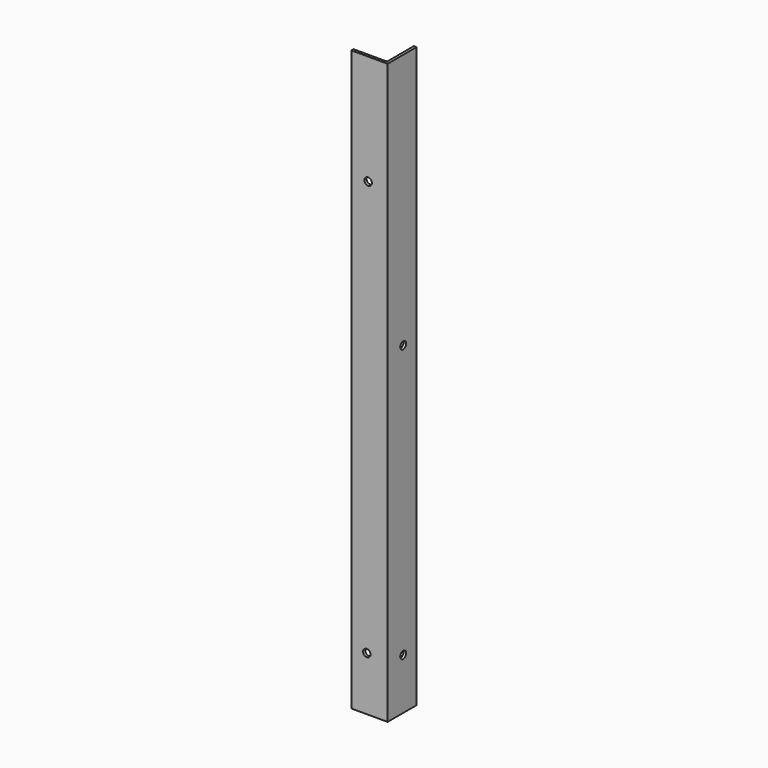
from build123d import *

# Parameters (mm, degrees)
BOX001_W      = 20
BOX001_H      = 20
BOX001_DEPTH  = 320
BOX_W         = 20
BOX_H         = 20
BOX_DEPTH     = 320
SKETCH005_R   = 2.05
HOLE_DEPTH    = 1.501
SKETCH011_R   = 2.05
HOLE006_DEPTH = 1.501
SKETCH013_R   = 2.05
HOLE008_DEPTH = 21.501


with BuildPart() as cut015:
    # Box001 → Box001 (new body)
    with BuildSketch(Plane(origin=(1.5, 1.5, 0), x_dir=(1, 0, 0), z_dir=(0, 0, 1))):
        with Locations((10, 10)):
            Rectangle(BOX001_W, BOX001_H)
    extrude(amount=BOX001_DEPTH)


with BuildPart() as vertical_front_left_body:
    # Box → Box (new body)
    with BuildSketch(Plane.XY):
        with Locations((10, 10)):
            Rectangle(BOX_W, BOX_H)
    extrude(amount=BOX_DEPTH)

    # Cut001: cut Cut015
    add(cut015.part, mode=Mode.SUBTRACT)

    # Sketch005 → Hole (cut, through all)
    with BuildSketch(Plane.YZ.offset(1.5)):
        with Locations((10.75, 28.25)):
            Circle(SKETCH005_R)
    extrude(amount=-HOLE_DEPTH, mode=Mode.SUBTRACT)

    # Sketch011 → Hole006 (cut, through all)
    with BuildSketch(Plane.YZ.offset(1.5)):
        with Locations((10.75, 178.75)):
            Circle(SKETCH011_R)
    extrude(amount=-HOLE006_DEPTH, mode=Mode.SUBTRACT)

    # Sketch013 → Hole008 (cut, through all)
    with BuildSketch(Plane.XZ.offset(1.5)):
        with Locations((10.75, 259.25)):
            Circle(SKETCH013_R)
        with Locations((11.5, 29.75)):
            Circle(SKETCH013_R)
    extrude(amount=-HOLE008_DEPTH, mode=Mode.SUBTRACT)


with BuildPart() as vertical_front_left_mirror:
    # Part__Mirroring002: instance of vertical_front_left_body
    add(vertical_front_left_body.part.mirror(Plane(origin=(0, 0, 0), x_dir=(0, -1, 0), z_dir=(1, 0, 0))))


with BuildPart() as vertical_front_left_mirror_1:
    # Part__Mirroring002 placement: moved
    add(vertical_front_left_mirror.part.moved(Location((640, 0, 0))))


solid = vertical_front_left_mirror_1.part
